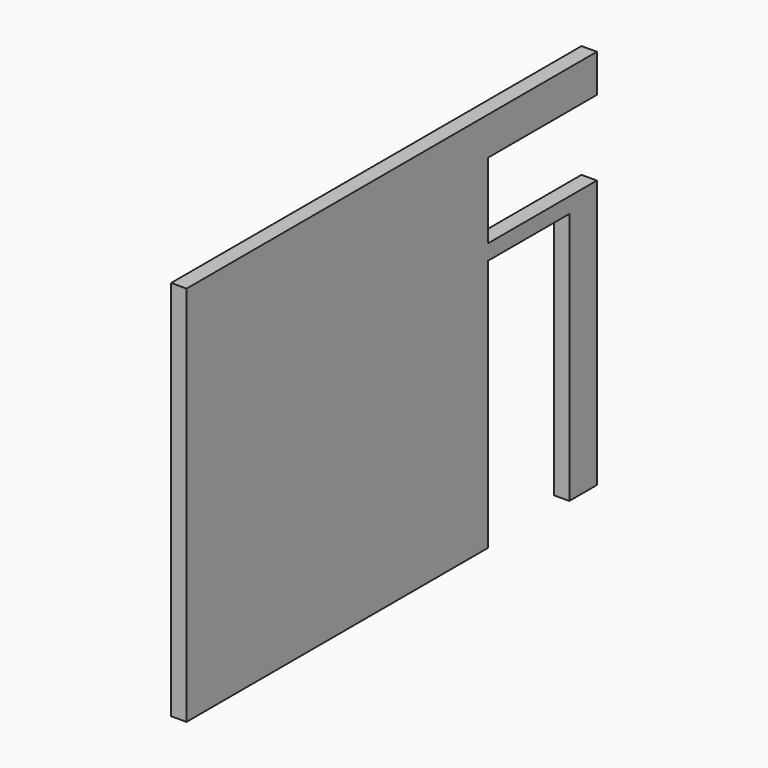
from build123d import *

# Parameters (mm, degrees)
F1_W      = 10356.05752
F1_H      = 4488.65752
F1_W_2    = 10102.05752
F1_H_2    = 4234.65752
F2_DEPTH  = 3149.6
F3_W      = 839.7875
F3_H      = 2086.76875
F4_DEPTH  = 127.001
F5_W      = 1123.95
F5_H      = 457.20254
F6_DEPTH  = 127.001
F7_DEPTH  = 127
F8_DEPTH  = 139.7
F9_DEPTH  = 25.4
F10_DEPTH = 10229.05752
F0_W      = 10102.05752
F0_H      = 4234.65752
F11_DEPTH = 25.4
F12_DEPTH = 127


with BuildPart() as f2:
    # F1 (on face) → F2 (new body)
    with BuildSketch(Plane.XY):
        with Locations((5051.02876, 2117.32876)):
            Rectangle(F1_W, F1_H)
        with Locations((5051.02876, 2117.32876)):
            Rectangle(F1_W_2, F1_H_2, mode=Mode.SUBTRACT)
    extrude(amount=F2_DEPTH)

    # F3 (on face) → F4 (cut, through all)
    with BuildSketch(Plane.YZ):
        with Locations((3530.60127, 1043.384375)):
            Rectangle(F3_W, F3_H)
    extrude(amount=-F4_DEPTH, mode=Mode.SUBTRACT)

    # F5 (on face) → F6 (cut, through all)
    with BuildSketch(Plane.YZ):
        with Locations((3672.68252, 2442.37002)):
            Rectangle(F5_W, F5_H)
    extrude(amount=-F6_DEPTH, mode=Mode.SUBTRACT)

    # F7 (cut): a face of the model
    f7_faces = [f2.faces().sort_by_distance(p)[0] for p in [
        (5051.02876, -127, 1574.8),
    ]]
    extrude(f7_faces, amount=-F7_DEPTH, mode=Mode.SUBTRACT)

    # F8 (cut): a face of the model
    f8_faces = [f2.faces().sort_by_distance(p)[0] for p in [
        (-63.5, 3672.68252, 2670.97129),
    ]]
    extrude(f8_faces, amount=-F8_DEPTH, mode=Mode.SUBTRACT)

    # F9 (cut): a face of the model
    f9_faces = [f2.faces().sort_by_distance(p)[0] for p in [
        (-63.5, 3672.68252, 2810.67129),
    ]]
    extrude(f9_faces, amount=-F9_DEPTH, mode=Mode.SUBTRACT)

    # F10 (cut, through all): a face of the model
    f10_faces = [f2.faces().sort_by_distance(p)[0] for p in [
        (10229.05752, 2180.82876, 1574.8),
    ]]
    extrude(f10_faces, amount=-F10_DEPTH, mode=Mode.SUBTRACT)

    # F0 (on Top) → F11 (cut)
    with BuildSketch(Plane.XY):
        with Locations((5051.02876, 2117.32876)):
            Rectangle(F0_W, F0_H)
    extrude(amount=-F11_DEPTH, mode=Mode.SUBTRACT)

    # F12 (cut): a face of the model
    f12_faces = [f2.faces().sort_by_distance(p)[0] for p in [
        (-63.5, 4361.65752, 1574.8),
    ]]
    extrude(f12_faces, amount=-F12_DEPTH, mode=Mode.SUBTRACT)


solid = f2.part
